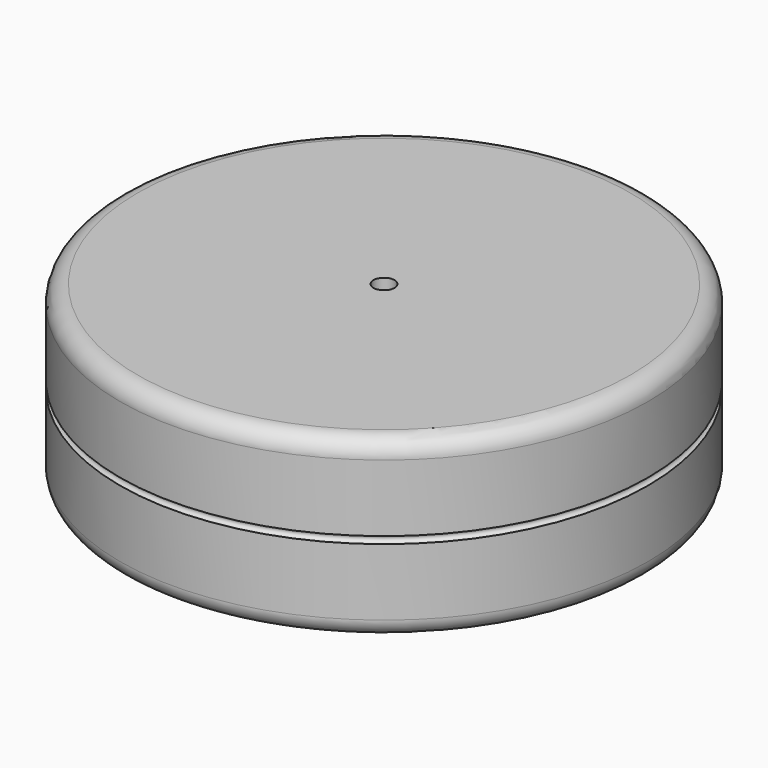
from build123d import *


with BuildPart() as f1:
    # F0 (on Front) → F1 (revolve)
    with BuildSketch(Plane.XZ):
        with BuildLine():
            Line((5, 15), (5, 0))
            Line((5, 0), (70, 0))
            ThreePointArc((70, 0), (73.535534, 1.464466), (75, 5))
            Line((75, 5), (74.999998, 24))
            ThreePointArc((74.999998, 24), (73.999998, 25), (74.999998, 26))
            Line((74.999998, 26), (74.999997, 45))
            ThreePointArc((74.999997, 45), (73.535531, 48.535534), (69.999997, 50))
            Line((69.999997, 50), (2.999997, 50))
            Line((2.999997, 50), (3, 15))
            Line((3, 15), (5, 15))
        make_face()
    revolve(axis=Axis((-2e-06, 0, 25), (0, 0, -1)))


solid = f1.part
